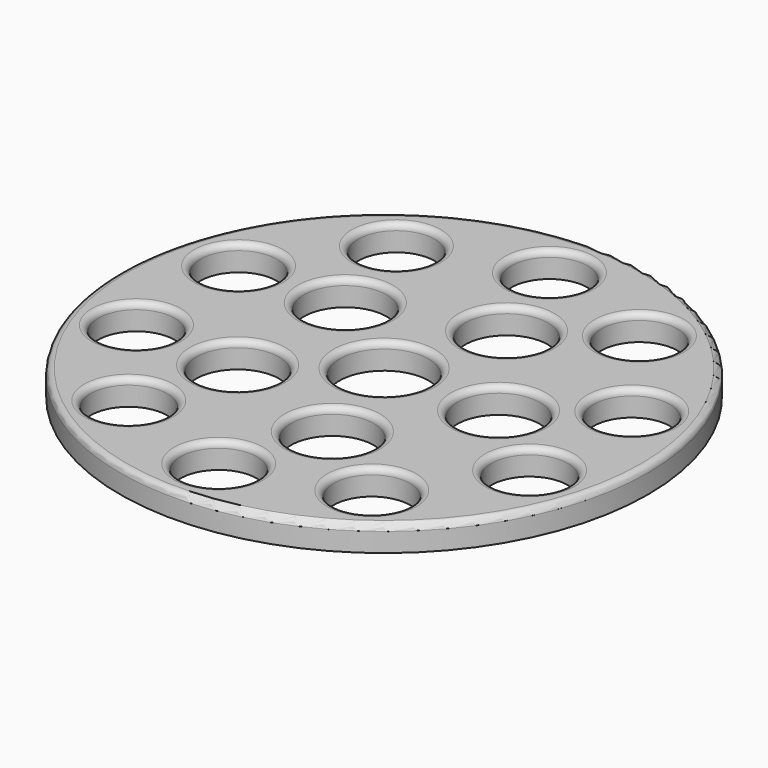
from build123d import *

# Parameters (mm, degrees)
F0_R     = 41.5
F0_R_2   = 6
F0_R_3   = 6.5
F0_R_4   = 7
F1_DEPTH = 4
F2_R     = 1


with BuildPart() as f1:
    # F0 (on Top) → F1 (new body)
    with BuildSketch(Plane.XY):
        Circle(F0_R)
        with Locations((-19.103021, -26.293052)):
            Circle(F0_R_2, mode=Mode.SUBTRACT)
        with Locations((-30.909337, -10.043052)):
            Circle(F0_R_2, mode=Mode.SUBTRACT)
        with Locations((-14.562306, -10.580135)):
            Circle(F0_R_3, mode=Mode.SUBTRACT)
        with Locations((0, -32.5)):
            Circle(F0_R_2, mode=Mode.SUBTRACT)
        with Locations((19.103021, -26.293052)):
            Circle(F0_R_2, mode=Mode.SUBTRACT)
        with Locations((5.562306, -17.119017)):
            Circle(F0_R_3, mode=Mode.SUBTRACT)
        with Locations((30.909337, -10.043052)):
            Circle(F0_R_2, mode=Mode.SUBTRACT)
        with Locations((-30.909337, 10.043052)):
            Circle(F0_R_2, mode=Mode.SUBTRACT)
        with Locations((-14.562306, 10.580135)):
            Circle(F0_R_3, mode=Mode.SUBTRACT)
        with Locations((-19.103021, 26.293052)):
            Circle(F0_R_2, mode=Mode.SUBTRACT)
        Circle(F0_R_4, mode=Mode.SUBTRACT)
        with Locations((18, 0)):
            Circle(F0_R_3, mode=Mode.SUBTRACT)
        with Locations((5.562306, 17.119017)):
            Circle(F0_R_3, mode=Mode.SUBTRACT)
        with Locations((30.909337, 10.043052)):
            Circle(F0_R_2, mode=Mode.SUBTRACT)
        with Locations((19.103021, 26.293052)):
            Circle(F0_R_2, mode=Mode.SUBTRACT)
        with Locations((0, 32.5)):
            Circle(F0_R_2, mode=Mode.SUBTRACT)
    extrude(amount=F1_DEPTH)

    # F2
    f2_edges = [f1.edges().sort_by_distance(p)[0] for p in [
        (-41.5, 0, 4),
        (-25.103021, -26.293052, 4),
        (-36.909337, -10.043052, 4),
        (-21.062306, -10.580135, 4),
        (-6, -32.5, 4),
        (13.103021, -26.293052, 4),
        (-0.937694, -17.119017, 4),
        (24.909337, -10.043052, 4),
        (-36.909337, 10.043052, 4),
        (-21.062306, 10.580135, 4),
        (-25.103021, 26.293052, 4),
        (-7, 0, 4),
        (11.5, 0, 4),
        (-0.937694, 17.119017, 4),
        (24.909337, 10.043052, 4),
        (13.103021, 26.293052, 4),
        (-6, 32.5, 4),
    ]]
    fillet(f2_edges, radius=F2_R)


solid = f1.part
